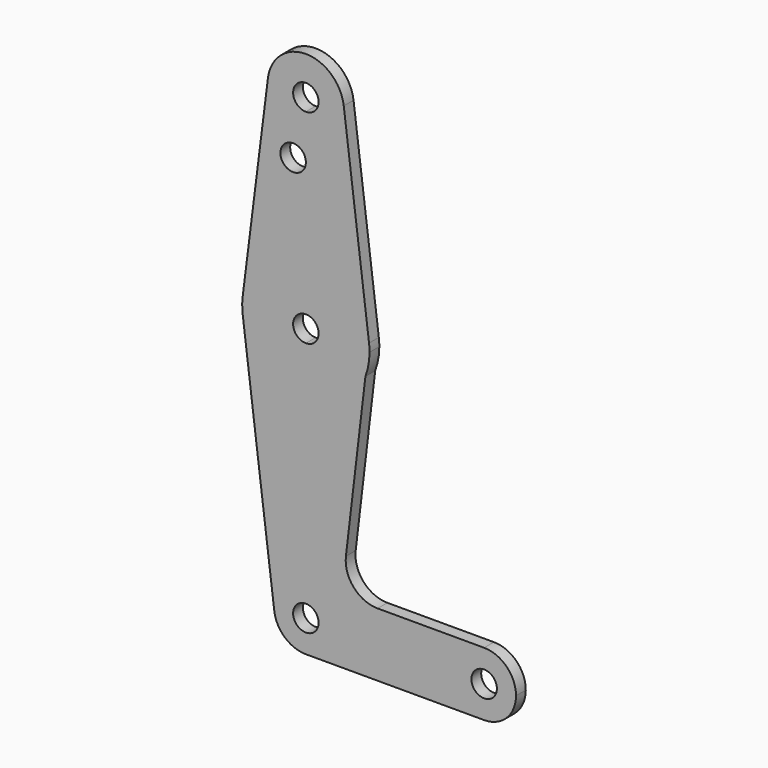
from build123d import *

# Parameters (mm, degrees)
F0_R     = 3.175
F1_DEPTH = 3.048


with BuildPart() as f1:
    # F0 (on Front) → F1 (new body)
    with BuildSketch(Plane.XZ):
        with BuildLine():
            ThreePointArc((0, 7.9375), (-5.9530971591, 5.2501943263), (-7.8752546592, -0.9921039775))
            ThreePointArc((-7.8752546592, -0.9921039775), (-5.2501943263, -5.9530971591), (0, -7.9375))
            ThreePointArc((0, -7.9375), (5.6126600757, -5.6126600757), (7.9375, 0))
            Line((7.9375, 0), (3.175, 0))
            ThreePointArc((3.175, 0), (-2.2450640303, -2.2450640303), (0, 3.175))
            Line((0, 3.175), (0, 7.9375))
        make_face()
        with BuildLine():
            Line((-15.7316415107, 61.3713665467), (-7.8752546592, -0.9921039775))
            ThreePointArc((-7.8752546592, -0.9921039775), (-5.9530971591, 5.2501943263), (0, 7.9375))
            Line((0, 7.9375), (0, 47.625))
            ThreePointArc((0, 47.625), (-10.4456586419, 51.5457605622), (-15.7316415107, 61.3713665467))
        make_face()
        with BuildLine():
            ThreePointArc((7.9375, 0), (5.6126600757, -5.6126600757), (0, -7.9375))
            Line((0, -7.9375), (44.45, -7.9375))
            ThreePointArc((44.45, -7.9375), (38.8373399243, -5.6126600757), (36.5125, 0))
            Line((36.5125, 0), (7.9375, 0))
        make_face()
        with BuildLine():
            Line((0, 47.625), (0, 7.9375))
            ThreePointArc((0, 7.9375), (5.6126600757, 5.6126600757), (7.9375, 0))
            Line((7.9375, 0), (36.5125, 0))
            ThreePointArc((36.5125, 0), (38.8373399243, 5.6126600757), (44.45, 7.9375))
            Line((44.45, 7.9375), (17.8808991438, 7.9375))
            ThreePointArc((17.8808991438, 7.9375), (11.9377840665, 10.6070690511), (9.9859034431, 16.8229662327))
            Line((9.9859034431, 16.8229662327), (14.8508923783, 57.8904883841))
            ThreePointArc((14.8508923783, 57.8904883841), (9.0267554553, 50.4411596629), (0, 47.625))
        make_face()
        with BuildLine():
            ThreePointArc((-15.7504882737, 65.484375), (-15.8748333401, 63.4272578151), (-15.7316415107, 61.3713665467))
            ThreePointArc((-15.7316415107, 61.3713665467), (-10.4456586419, 51.5457605622), (0, 47.625))
            Line((0, 47.625), (0, 60.325))
            ThreePointArc((0, 60.325), (-3.175, 63.5), (0, 66.675))
            Line((0, 66.675), (0, 79.375))
            ThreePointArc((0, 79.375), (-10.5003255158, 75.40625), (-15.7504882737, 65.484375))
        make_face()
        with BuildLine():
            ThreePointArc((36.5125, 0), (38.8373399243, -5.6126600757), (44.45, -7.9375))
            ThreePointArc((44.45, -7.9375), (50.0626600757, -5.6126600757), (52.3875, 0))
            ThreePointArc((52.3875, 0), (50.0626600757, 5.6126600757), (44.45, 7.9375))
            ThreePointArc((44.45, 7.9375), (38.8373399243, 5.6126600757), (36.5125, 0))
        make_face()
        with BuildLine():
            ThreePointArc((47.625, 0), (44.45, -3.175), (41.275, 0))
            ThreePointArc((41.275, 0), (44.45, 3.175), (47.625, 0))
        make_face(mode=Mode.SUBTRACT)
        with BuildLine():
            Line((0, 60.325), (0, 47.625))
            ThreePointArc((0, 47.625), (9.0267554553, 50.4411596629), (14.8508923783, 57.8904883841))
            Line((14.8508923783, 57.8904883841), (15.7504882737, 65.484375))
            ThreePointArc((15.7504882737, 65.484375), (10.5003255158, 75.40625), (0, 79.375))
            Line((0, 79.375), (0, 66.675))
            ThreePointArc((0, 66.675), (2.2450640303, 65.7450640303), (3.175, 63.5))
            ThreePointArc((3.175, 63.5), (2.2450640303, 61.2549359697), (0, 60.325))
        make_face()
        with BuildLine():
            Line((-9.4502929642, 115.490625), (-15.7504882737, 65.484375))
            ThreePointArc((-15.7504882737, 65.484375), (-10.5003255158, 75.40625), (0, 79.375))
            Line((0, 79.375), (0, 100.0252))
            Line((0, 100.0252), (0, 104.775))
            ThreePointArc((0, 104.775), (-7.14375, 107.9998046905), (-9.4502929642, 115.490625))
        make_face()
        with Locations((-3.175, 100.0252)):
            Circle(F0_R, mode=Mode.SUBTRACT)
        with BuildLine():
            Line((15.7504882737, 65.484375), (14.8508923783, 57.8904883841))
            ThreePointArc((14.8508923783, 57.8904883841), (15.6168745514, 60.6488854377), (15.875, 63.5))
            ThreePointArc((15.875, 63.5), (15.8438414904, 64.4941387366), (15.7504882737, 65.484375))
        make_face()
        with BuildLine():
            Line((0, 100.0252), (0, 79.375))
            ThreePointArc((0, 79.375), (10.5003255158, 75.40625), (15.7504882737, 65.484375))
            Line((15.7504882737, 65.484375), (9.4502929642, 115.490625))
            ThreePointArc((9.4502929642, 115.490625), (9.5063048942, 114.896483242), (9.525, 114.3))
            ThreePointArc((9.525, 114.3), (6.7351920908, 107.5648079092), (0, 104.775))
            Line((0, 104.775), (0, 100.0252))
        make_face()
        with BuildLine():
            ThreePointArc((9.4502929642, 115.490625), (0, 123.825), (-9.4502929642, 115.490625))
            ThreePointArc((-9.4502929642, 115.490625), (-7.14375, 107.9998046905), (0, 104.775))
            ThreePointArc((0, 104.775), (6.7351920908, 107.5648079092), (9.525, 114.3))
            ThreePointArc((9.525, 114.3), (9.5063048942, 114.896483242), (9.4502929642, 115.490625))
        make_face()
        with BuildLine():
            ThreePointArc((3.175, 114.3), (2.2450640303, 112.0549359697), (0, 111.125))
            ThreePointArc((0, 111.125), (-2.2450640303, 116.5450640303), (3.175, 114.3))
        make_face(mode=Mode.SUBTRACT)
        with BuildLine():
            ThreePointArc((7.9375, 0), (5.6126600757, 5.6126600757), (0, 7.9375))
            Line((0, 7.9375), (0, 3.175))
            ThreePointArc((0, 3.175), (2.2450640303, 2.2450640303), (3.175, 0))
            Line((3.175, 0), (7.9375, 0))
        make_face()
    extrude(amount=F1_DEPTH)


solid = f1.part
